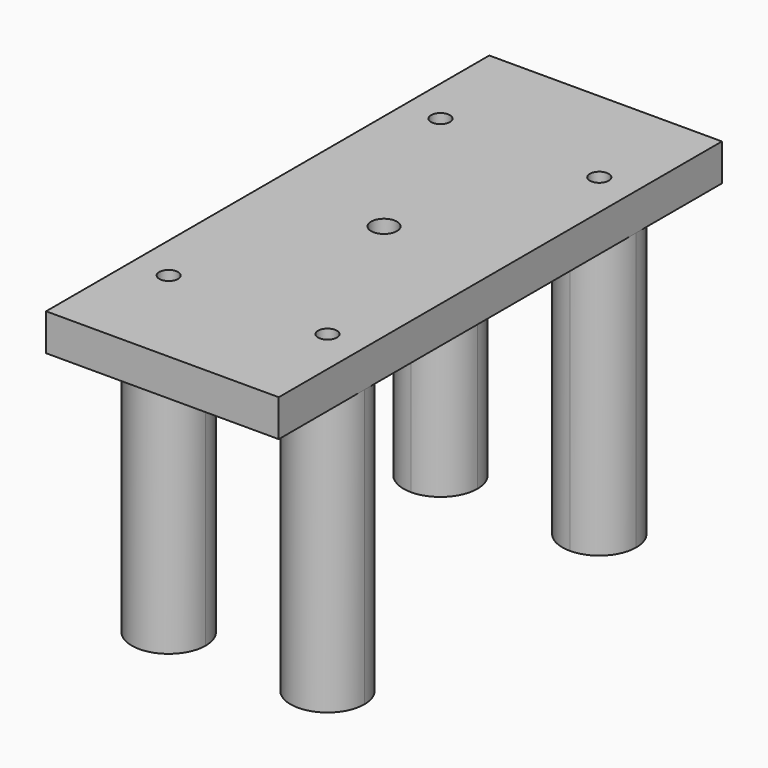
from build123d import *

# Parameters (mm, degrees)
F5_DEPTH               = 10
F6_DEPTH               = 75
F11_D                  = 5.1
F11_DEPTH              = 7.04
F11_CSINK_D            = 6.12
F11_CSINK_ANGLE        = 90
F11_TIP                = 1.5321945785
F11_ON_F9_D            = 5.1
F11_ON_F9_DEPTH        = 7.04
F11_ON_F9_CSINK_D      = 6.12
F11_ON_F9_CSINK_ANGLE  = 90
F11_ON_F9_TIP          = 1.5321945785
F11_ON_F10_D           = 5.1
F11_ON_F10_DEPTH       = 7.04
F11_ON_F10_CSINK_D     = 6.12
F11_ON_F10_CSINK_ANGLE = 90
F11_ON_F10_TIP         = 1.5321945785
F11_ON_F8_D            = 5.1
F11_ON_F8_DEPTH        = 7.04
F11_ON_F8_CSINK_D      = 6.12
F11_ON_F8_CSINK_ANGLE  = 90
F11_ON_F8_TIP          = 1.5321945785
F12_D                  = 5.1
F12_DEPTH              = 11
F12_TIP                = 1.5321945785
F13_R                  = 3.5
F14_DEPTH              = 25
F15_R                  = 10
F16_DEPTH              = 5


with BuildPart() as f5:
    # F4 (on Top) → F5 (new body)
    with BuildSketch(Plane.XY):
        with BuildLine():
            ThreePointArc((21.5, -36), (28.5710678119, -38.9289321881), (31.5, -46))
            Line((31.5, -46), (31.5, 46))
            ThreePointArc((31.5, 46), (28.5710678119, 38.9289321881), (21.5, 36))
            Line((21.5, 36), (21.5, -36))
        make_face()
        with BuildLine():
            Line((-31.5, -75), (31.5, -75))
            Line((31.5, -75), (31.5, -46))
            ThreePointArc((31.5, -46), (21.5, -56), (11.5, -46))
            Line((11.5, -46), (-11.5, -46))
            ThreePointArc((-11.5, -46), (-21.5, -56), (-31.5, -46))
            Line((-31.5, -46), (-31.5, -75))
        make_face()
        with BuildLine():
            Line((-31.5, 45.999999887), (-31.5, -46))
            ThreePointArc((-31.5, -46), (-28.5710678119, -38.9289321881), (-21.5, -36))
            Line((-21.5, -36), (-21.5, 36))
            ThreePointArc((-21.5, 36), (-28.5710677719, 38.9289321482), (-31.5, 45.999999887))
        make_face()
        with BuildLine():
            ThreePointArc((11.5, -46), (14.4289321881, -38.9289321881), (21.5, -36))
            Line((21.5, -36), (21.5, 36))
            ThreePointArc((21.5, 36), (14.4289321881, 38.9289321881), (11.5, 46))
            Line((11.5, 46), (-11.5, 46))
            ThreePointArc((-11.5, 46), (-14.4289321881, 38.9289321881), (-21.5, 36))
            Line((-21.5, 36), (-21.5, -36))
            ThreePointArc((-21.5, -36), (-14.4289321881, -38.9289321881), (-11.5, -46))
            Line((-11.5, -46), (11.5, -46))
        make_face()
        with BuildLine():
            ThreePointArc((-21.5, -36), (-28.5710678119, -38.9289321881), (-31.5, -46))
            ThreePointArc((-31.5, -46), (-21.5, -56), (-11.5, -46))
            Line((-11.5, -46), (-18.95, -46))
            ThreePointArc((-18.95, -46), (-23.303122292, -47.803122292), (-21.5, -43.45))
            Line((-21.5, -43.45), (-21.5, -36))
        make_face()
        with BuildLine():
            ThreePointArc((-11.5, -46), (-14.4289321881, -38.9289321881), (-21.5, -36))
            Line((-21.5, -36), (-21.5, -43.45))
            ThreePointArc((-21.5, -43.45), (-19.696877708, -44.196877708), (-18.95, -46))
            Line((-18.95, -46), (-11.5, -46))
        make_face()
        with BuildLine():
            Line((-21.5, -46), (-21.5, -43.45))
            ThreePointArc((-21.5, -43.45), (-23.303122292, -47.803122292), (-18.95, -46))
            Line((-18.95, -46), (-21.5, -46))
        make_face()
        with BuildLine():
            ThreePointArc((-18.95, -46), (-19.696877708, -44.196877708), (-21.5, -43.45))
            Line((-21.5, -43.45), (-21.5, -46))
            Line((-21.5, -46), (-18.95, -46))
        make_face()
        with BuildLine():
            ThreePointArc((11.5, -46), (21.5, -56), (31.5, -46))
            ThreePointArc((31.5, -46), (28.5710678119, -38.9289321881), (21.5, -36))
            Line((21.5, -36), (21.5, -43.45))
            ThreePointArc((21.5, -43.45), (23.303122292, -44.196877708), (24.05, -46))
            ThreePointArc((24.05, -46), (21.5, -48.55), (18.95, -46))
            Line((18.95, -46), (11.5, -46))
        make_face()
        with BuildLine():
            Line((21.5, -46), (21.5, -43.45))
            ThreePointArc((21.5, -43.45), (19.696877708, -44.196877708), (18.95, -46))
            Line((18.95, -46), (21.5, -46))
        make_face()
        with BuildLine():
            ThreePointArc((24.05, -46), (23.303122292, -44.196877708), (21.5, -43.45))
            Line((21.5, -43.45), (21.5, -46))
            Line((21.5, -46), (18.95, -46))
            ThreePointArc((18.95, -46), (21.5, -48.55), (24.05, -46))
        make_face()
        with BuildLine():
            Line((21.5, -43.45), (21.5, -36))
            ThreePointArc((21.5, -36), (14.4289321881, -38.9289321881), (11.5, -46))
            Line((11.5, -46), (18.95, -46))
            ThreePointArc((18.95, -46), (19.696877708, -44.196877708), (21.5, -43.45))
        make_face()
        with BuildLine():
            Line((18.95, 46), (11.5, 46))
            ThreePointArc((11.5, 46), (14.4289321881, 38.9289321881), (21.5, 36))
            Line((21.5, 36), (21.5, 43.45))
            ThreePointArc((21.5, 43.45), (19.696877708, 44.196877708), (18.95, 46))
        make_face()
        with BuildLine():
            Line((21.5, 46), (18.95, 46))
            ThreePointArc((18.95, 46), (19.696877708, 44.196877708), (21.5, 43.45))
            Line((21.5, 43.45), (21.5, 46))
        make_face()
        with BuildLine():
            ThreePointArc((24.05, 46), (21.5, 48.55), (18.95, 46))
            Line((18.95, 46), (21.5, 46))
            Line((21.5, 46), (21.5, 43.45))
            ThreePointArc((21.5, 43.45), (23.303122292, 44.196877708), (24.05, 46))
        make_face()
        with BuildLine():
            ThreePointArc((21.5, 36), (28.5710678119, 38.9289321881), (31.5, 46))
            ThreePointArc((31.5, 46), (21.5, 56), (11.5, 46))
            Line((11.5, 46), (18.95, 46))
            ThreePointArc((18.95, 46), (21.5, 48.55), (24.05, 46))
            ThreePointArc((24.05, 46), (23.303122292, 44.196877708), (21.5, 43.45))
            Line((21.5, 43.45), (21.5, 36))
        make_face()
        with BuildLine():
            ThreePointArc((-21.5, 36), (-14.4289321881, 38.9289321881), (-11.5, 46))
            Line((-11.5, 46), (-18.95, 46))
            ThreePointArc((-18.95, 46), (-19.696877708, 44.196877708), (-21.5, 43.45))
            Line((-21.5, 43.45), (-21.5, 36))
        make_face()
        with BuildLine():
            ThreePointArc((-21.5, 43.45), (-19.696877708, 44.196877708), (-18.95, 46))
            Line((-18.95, 46), (-21.5, 46))
            Line((-21.5, 46), (-21.5, 43.45))
        make_face()
        with BuildLine():
            Line((-21.5, 46), (-18.95, 46))
            ThreePointArc((-18.95, 46), (-23.303122292, 47.803122292), (-21.5, 43.45))
            Line((-21.5, 43.45), (-21.5, 46))
        make_face()
        with BuildLine():
            ThreePointArc((-11.5, 46), (-21.5000000565, 56), (-31.5, 45.999999887))
            ThreePointArc((-31.5, 45.999999887), (-28.5710677719, 38.9289321482), (-21.5, 36))
            Line((-21.5, 36), (-21.5, 43.45))
            ThreePointArc((-21.5, 43.45), (-23.303122292, 47.803122292), (-18.95, 46))
            Line((-18.95, 46), (-11.5, 46))
        make_face()
        with BuildLine():
            ThreePointArc((11.5, 46), (21.5, 56), (31.5, 46))
            Line((31.5, 46), (31.5, 75))
            Line((31.5, 75), (-31.5, 75))
            Line((-31.5, 75), (-31.5, 45.999999887))
            ThreePointArc((-31.5, 45.999999887), (-21.5000000565, 56), (-11.5, 46))
            Line((-11.5, 46), (11.5, 46))
        make_face()
    extrude(amount=F5_DEPTH)

    # F4 (on Top) → F6 (join)
    with BuildSketch(Plane.XY):
        with BuildLine():
            Line((18.95, 46), (11.5, 46))
            ThreePointArc((11.5, 46), (14.4289321881, 38.9289321881), (21.5, 36))
            Line((21.5, 36), (21.5, 43.45))
            ThreePointArc((21.5, 43.45), (19.696877708, 44.196877708), (18.95, 46))
        make_face()
        with BuildLine():
            ThreePointArc((21.5, 36), (28.5710678119, 38.9289321881), (31.5, 46))
            ThreePointArc((31.5, 46), (21.5, 56), (11.5, 46))
            Line((11.5, 46), (18.95, 46))
            ThreePointArc((18.95, 46), (21.5, 48.55), (24.05, 46))
            ThreePointArc((24.05, 46), (23.303122292, 44.196877708), (21.5, 43.45))
            Line((21.5, 43.45), (21.5, 36))
        make_face()
        with BuildLine():
            ThreePointArc((24.05, 46), (21.5, 48.55), (18.95, 46))
            Line((18.95, 46), (21.5, 46))
            Line((21.5, 46), (21.5, 43.45))
            ThreePointArc((21.5, 43.45), (23.303122292, 44.196877708), (24.05, 46))
        make_face()
        with BuildLine():
            Line((21.5, 46), (18.95, 46))
            ThreePointArc((18.95, 46), (19.696877708, 44.196877708), (21.5, 43.45))
            Line((21.5, 43.45), (21.5, 46))
        make_face()
        with BuildLine():
            ThreePointArc((-21.5, 36), (-14.4289321881, 38.9289321881), (-11.5, 46))
            Line((-11.5, 46), (-18.95, 46))
            ThreePointArc((-18.95, 46), (-19.696877708, 44.196877708), (-21.5, 43.45))
            Line((-21.5, 43.45), (-21.5, 36))
        make_face()
        with BuildLine():
            ThreePointArc((-11.5, 46), (-21.5000000565, 56), (-31.5, 45.999999887))
            ThreePointArc((-31.5, 45.999999887), (-28.5710677719, 38.9289321482), (-21.5, 36))
            Line((-21.5, 36), (-21.5, 43.45))
            ThreePointArc((-21.5, 43.45), (-23.303122292, 47.803122292), (-18.95, 46))
            Line((-18.95, 46), (-11.5, 46))
        make_face()
        with BuildLine():
            ThreePointArc((-21.5, 43.45), (-19.696877708, 44.196877708), (-18.95, 46))
            Line((-18.95, 46), (-21.5, 46))
            Line((-21.5, 46), (-21.5, 43.45))
        make_face()
        with BuildLine():
            Line((-21.5, 46), (-18.95, 46))
            ThreePointArc((-18.95, 46), (-23.303122292, 47.803122292), (-21.5, 43.45))
            Line((-21.5, 43.45), (-21.5, 46))
        make_face()
        with BuildLine():
            Line((-21.5, -46), (-21.5, -43.45))
            ThreePointArc((-21.5, -43.45), (-23.303122292, -47.803122292), (-18.95, -46))
            Line((-18.95, -46), (-21.5, -46))
        make_face()
        with BuildLine():
            ThreePointArc((-18.95, -46), (-19.696877708, -44.196877708), (-21.5, -43.45))
            Line((-21.5, -43.45), (-21.5, -46))
            Line((-21.5, -46), (-18.95, -46))
        make_face()
        with BuildLine():
            ThreePointArc((-11.5, -46), (-14.4289321881, -38.9289321881), (-21.5, -36))
            Line((-21.5, -36), (-21.5, -43.45))
            ThreePointArc((-21.5, -43.45), (-19.696877708, -44.196877708), (-18.95, -46))
            Line((-18.95, -46), (-11.5, -46))
        make_face()
        with BuildLine():
            ThreePointArc((-21.5, -36), (-28.5710678119, -38.9289321881), (-31.5, -46))
            ThreePointArc((-31.5, -46), (-21.5, -56), (-11.5, -46))
            Line((-11.5, -46), (-18.95, -46))
            ThreePointArc((-18.95, -46), (-23.303122292, -47.803122292), (-21.5, -43.45))
            Line((-21.5, -43.45), (-21.5, -36))
        make_face()
        with BuildLine():
            ThreePointArc((24.05, -46), (23.303122292, -44.196877708), (21.5, -43.45))
            Line((21.5, -43.45), (21.5, -46))
            Line((21.5, -46), (18.95, -46))
            ThreePointArc((18.95, -46), (21.5, -48.55), (24.05, -46))
        make_face()
        with BuildLine():
            Line((21.5, -46), (21.5, -43.45))
            ThreePointArc((21.5, -43.45), (19.696877708, -44.196877708), (18.95, -46))
            Line((18.95, -46), (21.5, -46))
        make_face()
        with BuildLine():
            Line((21.5, -43.45), (21.5, -36))
            ThreePointArc((21.5, -36), (14.4289321881, -38.9289321881), (11.5, -46))
            Line((11.5, -46), (18.95, -46))
            ThreePointArc((18.95, -46), (19.696877708, -44.196877708), (21.5, -43.45))
        make_face()
        with BuildLine():
            ThreePointArc((11.5, -46), (21.5, -56), (31.5, -46))
            ThreePointArc((31.5, -46), (28.5710678119, -38.9289321881), (21.5, -36))
            Line((21.5, -36), (21.5, -43.45))
            ThreePointArc((21.5, -43.45), (23.303122292, -44.196877708), (24.05, -46))
            ThreePointArc((24.05, -46), (21.5, -48.55), (18.95, -46))
            Line((18.95, -46), (11.5, -46))
        make_face()
    extrude(amount=-F6_DEPTH)

    # F11
    with Locations(Plane(origin=(0, 0, -75), x_dir=(1, 0, 0), z_dir=(0, 0, -1))):
        with Locations((-21.5, -46)):
            CounterSinkHole(F11_D / 2, F11_CSINK_D / 2, depth=F11_DEPTH, counter_sink_angle=F11_CSINK_ANGLE)
            with Locations((0, 0, -(F11_DEPTH + F11_TIP / 2))):  # 118° drill point
                Cone(0, F11_D / 2, F11_TIP, mode=Mode.SUBTRACT)

    # F11 on F9
    with Locations(Plane(origin=(0, 0, -75), x_dir=(1, 0, 0), z_dir=(0, 0, -1))):
        with Locations((-21.5, 46)):
            CounterSinkHole(F11_ON_F9_D / 2, F11_ON_F9_CSINK_D / 2, depth=F11_ON_F9_DEPTH, counter_sink_angle=F11_ON_F9_CSINK_ANGLE)
            with Locations((0, 0, -(F11_ON_F9_DEPTH + F11_ON_F9_TIP / 2))):  # 118° drill point
                Cone(0, F11_ON_F9_D / 2, F11_ON_F9_TIP, mode=Mode.SUBTRACT)

    # F11 on F10
    with Locations(Plane(origin=(0, 0, -75), x_dir=(1, 0, 0), z_dir=(0, 0, -1))):
        with Locations((21.5, 46)):
            CounterSinkHole(F11_ON_F10_D / 2, F11_ON_F10_CSINK_D / 2, depth=F11_ON_F10_DEPTH, counter_sink_angle=F11_ON_F10_CSINK_ANGLE)
            with Locations((0, 0, -(F11_ON_F10_DEPTH + F11_ON_F10_TIP / 2))):  # 118° drill point
                Cone(0, F11_ON_F10_D / 2, F11_ON_F10_TIP, mode=Mode.SUBTRACT)

    # F11 on F8
    with Locations(Plane(origin=(0, 0, -75), x_dir=(1, 0, 0), z_dir=(0, 0, -1))):
        with Locations((21.5, -46)):
            CounterSinkHole(F11_ON_F8_D / 2, F11_ON_F8_CSINK_D / 2, depth=F11_ON_F8_DEPTH, counter_sink_angle=F11_ON_F8_CSINK_ANGLE)
            with Locations((0, 0, -(F11_ON_F8_DEPTH + F11_ON_F8_TIP / 2))):  # 118° drill point
                Cone(0, F11_ON_F8_D / 2, F11_ON_F8_TIP, mode=Mode.SUBTRACT)

    # F12 (one way)
    with BuildSketch(Plane(origin=(0, 0, 0), x_dir=(1, 0, 0), z_dir=(0, 0, -1))):
        with Locations((-21.5, -46), (21.5, -46), (-21.5, 46), (21.5, 46)):
            Circle(F12_D / 2)
    extrude(amount=-F12_DEPTH, mode=Mode.SUBTRACT)
    with Locations(Plane(origin=(0, 0, 0), x_dir=(1, 0, 0), z_dir=(0, 0, -1))):
        with Locations((-21.5, -46), (21.5, -46), (-21.5, 46), (21.5, 46)):
            with Locations((0, 0, -(F12_DEPTH + F12_TIP / 2))):  # 118° drill point
                Cone(0, F12_D / 2, F12_TIP, mode=Mode.SUBTRACT)

    # F13 (on face) → F14 (cut)
    with BuildSketch(Plane.XY):
        Circle(F13_R)
    extrude(amount=F14_DEPTH, mode=Mode.SUBTRACT)

    # F15 (on face) → F16 (cut)
    with BuildSketch(Plane.XY):
        Circle(F15_R)
    extrude(amount=F16_DEPTH, mode=Mode.SUBTRACT)


solid = f5.part
